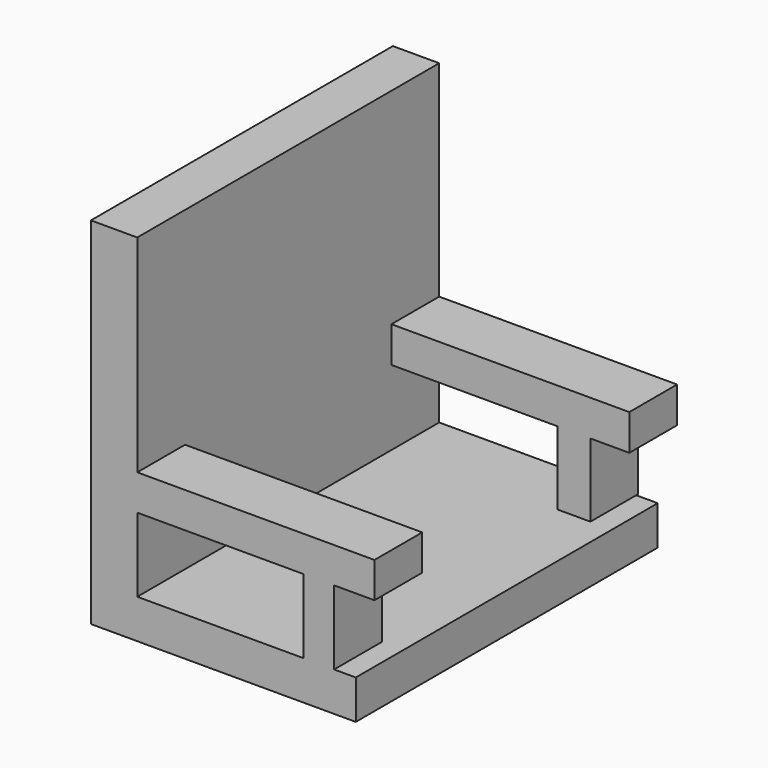
from build123d import *

# Parameters (mm, degrees)
F1_DEPTH = 133
F0_W     = 12.819961
F0_H     = 30.998608
F2_DEPTH = 25
F4_W     = 13.766533
F4_H     = 30.66182
F5_DEPTH = 25


with BuildPart() as f1:
    # F0 (on Front) → F1 (new body)
    with BuildSketch(Plane.XZ):
        Polygon((29.924046, -10.552499), (-39.667495, -10.552499), (-39.667495, 20.446109), (-39.667495, 35.30141), (-39.667495, 121.849649), (-59.0625, 121.849649), (-59.0625, -10.552499), (-59.0625, -26.9325), (51.817503, -26.9325), (51.817503, -10.552499), (42.744007, -10.552499), align=None)
    extrude(amount=-F1_DEPTH)

    # F0 (on Front) → F2 (join)
    with BuildSketch(Plane.XZ):
        Polygon((29.924046, -10.552499), (-39.667495, -10.552499), (-39.667495, 20.446109), (-39.667495, 35.30141), (-39.667495, 121.849649), (-59.0625, 121.849649), (-59.0625, -10.552499), (-59.0625, -26.9325), (51.817503, -26.9325), (51.817503, -10.552499), (42.744007, -10.552499), align=None)
        with Locations((36.334026, 4.946805)):
            Rectangle(F0_W, F0_H)
        Polygon((-39.667495, 35.30141), (-39.667495, 20.446109), (29.924046, 20.446109), (42.744007, 20.446109), (59.634183, 20.446109), (59.634183, 35.30141), align=None)
    extrude(amount=F2_DEPTH)

    # F4 (on offset) → F5 (join)
    with BuildSketch(Plane.XZ.offset(-133)):
        Polygon((59.915699, 20.806234), (59.915699, 35.824269), (-42.081788, 35.824269), (-42.081788, 20.806234), (29.879631, 20.806234), (43.646164, 20.806234), align=None)
        with Locations((36.762898, 5.475324)):
            Rectangle(F4_W, F4_H)
    extrude(amount=F5_DEPTH)


solid = f1.part
